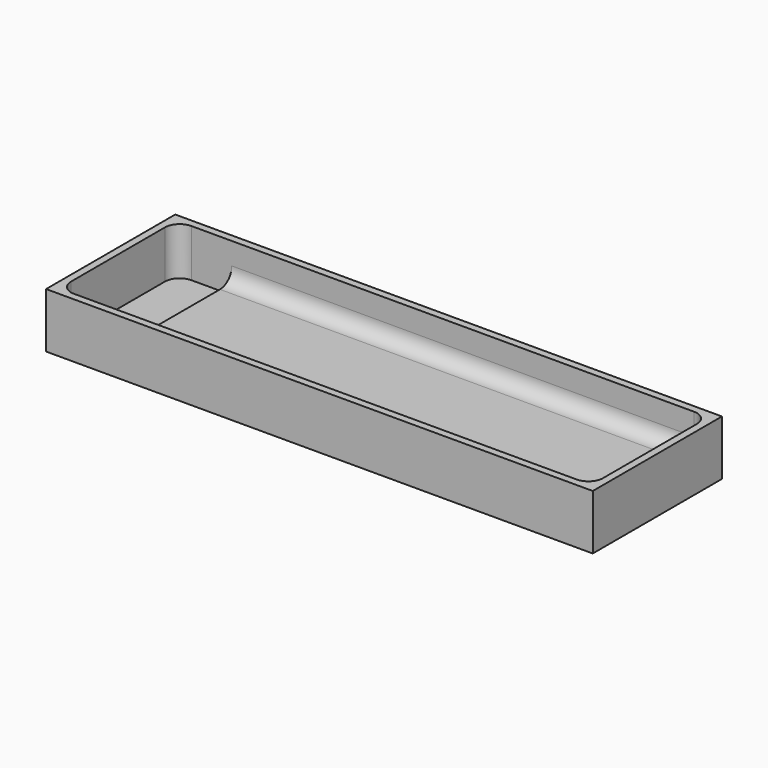
from build123d import *

# Parameters (mm, degrees)
F0_W     = 189.23
F0_H     = 55.88
F0_W_2   = 184.15
F0_H_2   = 50.8
F1_DEPTH = 12.7
F2_W     = 189.23
F2_H     = 55.88
F3_DEPTH = 6.35
F4_W     = 19.05
F4_H     = 50.8
F5_DEPTH = 3.81
F6_R     = 5.08


with BuildPart() as f1:
    # F0 (on Top) → F1 (new body)
    with BuildSketch(Plane.XY):
        with Locations((92.075, 25.4)):
            Rectangle(F0_W, F0_H)
        with Locations((92.075, 25.4)):
            Rectangle(F0_W_2, F0_H_2, mode=Mode.SUBTRACT)
    extrude(amount=F1_DEPTH)

    # F2 (on face) → F3 (join)
    with BuildSketch(Plane(origin=(0, 0, 0), x_dir=(1, 0, 0), z_dir=(0, 0, -1))):
        with Locations((92.075, -25.4)):
            Rectangle(F2_W, F2_H)
    extrude(amount=F3_DEPTH)

    # F4 (on face) → F5 (cut)
    with BuildSketch(Plane.XY):
        with Locations((9.525, 25.4)):
            Rectangle(F4_W, F4_H)
    extrude(amount=-F5_DEPTH, mode=Mode.SUBTRACT)

    # F6
    f6_edges = [f1.edges().sort_by_distance(p)[0] for p in [
        (101.6, 50.8, 0),
        (0, 50.8, 4.445),
        (184.15, 50.8, 6.35),
        (184.15, 25.4, 0),
        (184.15, 0, 6.35),
        (101.6, 0, 0),
        (0, 0, 4.445),
    ]]
    fillet(f6_edges, radius=F6_R)


solid = f1.part
